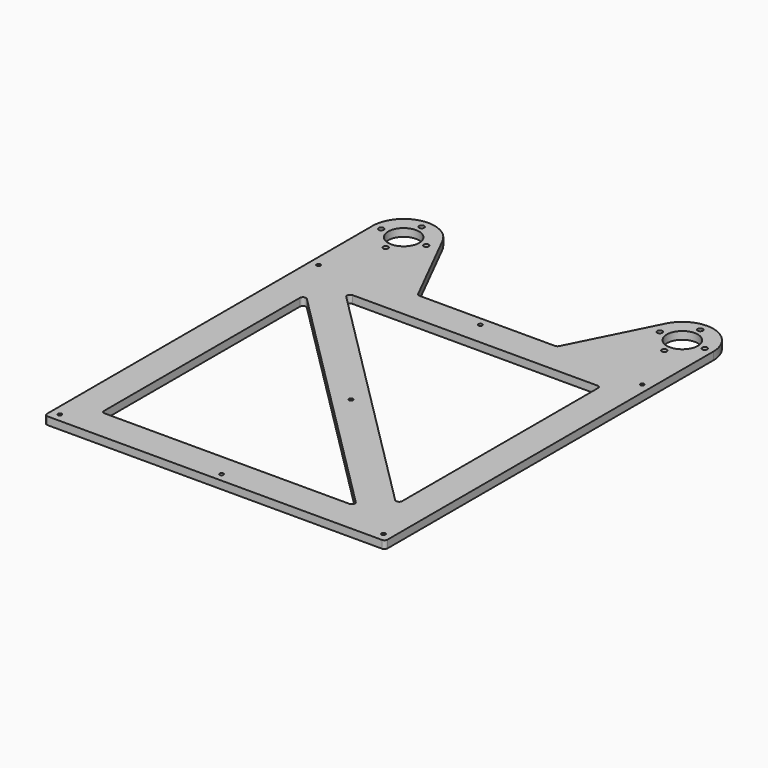
from build123d import *

# Parameters (mm, degrees)
F0_R     = 1.25
F0_R_2   = 1.65
F0_R_3   = 10
F1_DEPTH = 5
F2_R     = 2


with BuildPart() as f1:
    # F0 (on Top) → F1 (new body)
    with BuildSketch(Plane.XY):
        with BuildLine():
            Line((0, 265), (0, 0))
            Line((0, 0), (220, 0))
            Line((220, 0), (220, 265))
            ThreePointArc((220, 265), (204.615137, 284.460229), (182.129949, 273.981162))
            Line((182.129949, 273.981162), (155, 220))
            Line((155, 220), (65, 220))
            Line((65, 220), (37.870051, 273.981162))
            ThreePointArc((37.870051, 273.981162), (15.384863, 284.460229), (0, 265))
        make_face()
        with Locations((5.5, 5.5)):
            Circle(F0_R, mode=Mode.SUBTRACT)
        Polygon((20.5, 185.357864), (185.357864, 20.5), (20.5, 20.5), align=None, mode=Mode.SUBTRACT)
        with Locations((110, 5.5)):
            Circle(F0_R, mode=Mode.SUBTRACT)
        with Locations((214.5, 5.5)):
            Circle(F0_R, mode=Mode.SUBTRACT)
        with Locations((110, 110)):
            Circle(F0_R, mode=Mode.SUBTRACT)
        Polygon((34.642136, 199.5), (199.5, 199.5), (199.5, 34.642136), align=None, mode=Mode.SUBTRACT)
        with Locations((5.5, 214.5)):
            Circle(F0_R, mode=Mode.SUBTRACT)
        with Locations((5.5, 265)):
            Circle(F0_R_2, mode=Mode.SUBTRACT)
        with Locations((20, 250.5)):
            Circle(F0_R_2, mode=Mode.SUBTRACT)
        with Locations((20, 265)):
            Circle(F0_R_3, mode=Mode.SUBTRACT)
        with Locations((20, 279.5)):
            Circle(F0_R_2, mode=Mode.SUBTRACT)
        with Locations((34.5, 265)):
            Circle(F0_R_2, mode=Mode.SUBTRACT)
        with Locations((110, 214.5)):
            Circle(F0_R, mode=Mode.SUBTRACT)
        with Locations((214.5, 214.5)):
            Circle(F0_R, mode=Mode.SUBTRACT)
        with Locations((185.5, 265)):
            Circle(F0_R_2, mode=Mode.SUBTRACT)
        with Locations((200, 250.5)):
            Circle(F0_R_2, mode=Mode.SUBTRACT)
        with Locations((200, 265)):
            Circle(F0_R_3, mode=Mode.SUBTRACT)
        with Locations((214.5, 265)):
            Circle(F0_R_2, mode=Mode.SUBTRACT)
        with Locations((200, 279.5)):
            Circle(F0_R_2, mode=Mode.SUBTRACT)
    extrude(amount=F1_DEPTH)

    # F2
    f2_edges = [f1.edges().sort_by_distance(p)[0] for p in [
        (65, 220, 2.5),
        (155, 220, 2.5),
        (220, 0, 2.5),
        (0, 0, 2.5),
        (34.642136, 199.5, 2.5),
        (199.5, 199.5, 2.5),
        (199.5, 34.642136, 2.5),
        (20.5, 185.357864, 2.5),
        (185.357864, 20.5, 2.5),
        (20.5, 20.5, 2.5),
    ]]
    fillet(f2_edges, radius=F2_R)


solid = f1.part
